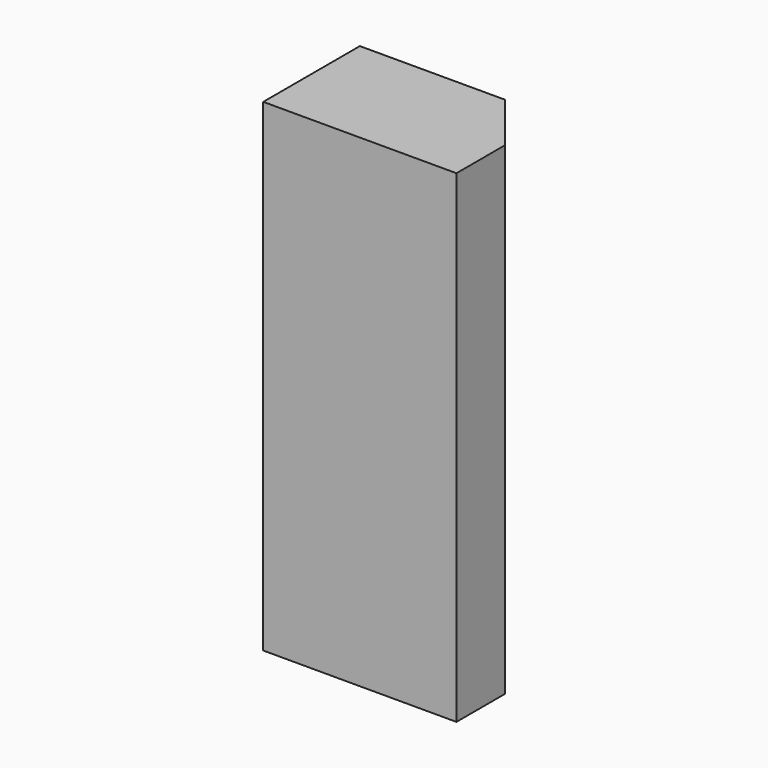
from build123d import *

# Parameters (mm, degrees)
F1_DEPTH = 5
F2_DEPTH = 195


with BuildPart() as f1:
    # F0 (on Top) → F1 (new body)
    with BuildSketch(Plane.XY):
        Polygon((20, 25), (-40, 25), (-40, -25), (-35, -25), (35, -25), (40, -25), (40, 0), align=None)
        Polygon((20, 25), (-40, 25), (-40, -25), (-35, -25), (35, -25), (40, -25), (40, 0), align=None)
    extrude(amount=-F1_DEPTH)

    # F0 (on Top) → F2 (join)
    with BuildSketch(Plane.XY):
        Polygon((20, 25), (-40, 25), (-40, -25), (-35, -25), (35, -25), (40, -25), (40, 0), align=None)
    extrude(amount=F2_DEPTH)


solid = f1.part
